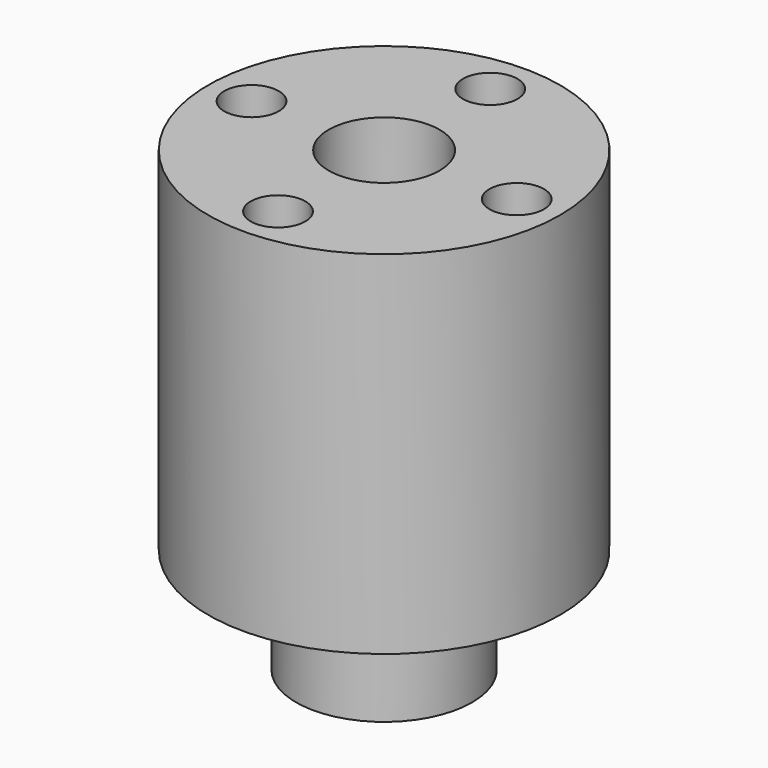
from build123d import *

# Parameters (mm, degrees)
F0_R     = 12.7
F0_R_2   = 1.968379445
F0_R_3   = 6.35
F0_R_4   = 4.0005
F1_DEPTH = 25.4
F2_DEPTH = 7.62


with BuildPart() as f1:
    # F0 (on Top) → F1 (new body)
    with BuildSketch(Plane.XY):
        Circle(F0_R)
        with Locations((0, -9.5697641373)):
            Circle(F0_R_2, mode=Mode.SUBTRACT)
        with Locations((-9.5697641373, 0)):
            Circle(F0_R_2, mode=Mode.SUBTRACT)
        Circle(F0_R_3, mode=Mode.SUBTRACT)
        with Locations((9.5697641373, 0)):
            Circle(F0_R_2, mode=Mode.SUBTRACT)
        with Locations((0, 9.5697641373)):
            Circle(F0_R_2, mode=Mode.SUBTRACT)
        Circle(F0_R_3)
        Circle(F0_R_4, mode=Mode.SUBTRACT)
    extrude(amount=F1_DEPTH)

    # F0 (on Top) → F2 (join)
    with BuildSketch(Plane.XY):
        Circle(F0_R_3)
        Circle(F0_R_4, mode=Mode.SUBTRACT)
    extrude(amount=-F2_DEPTH)


solid = f1.part
